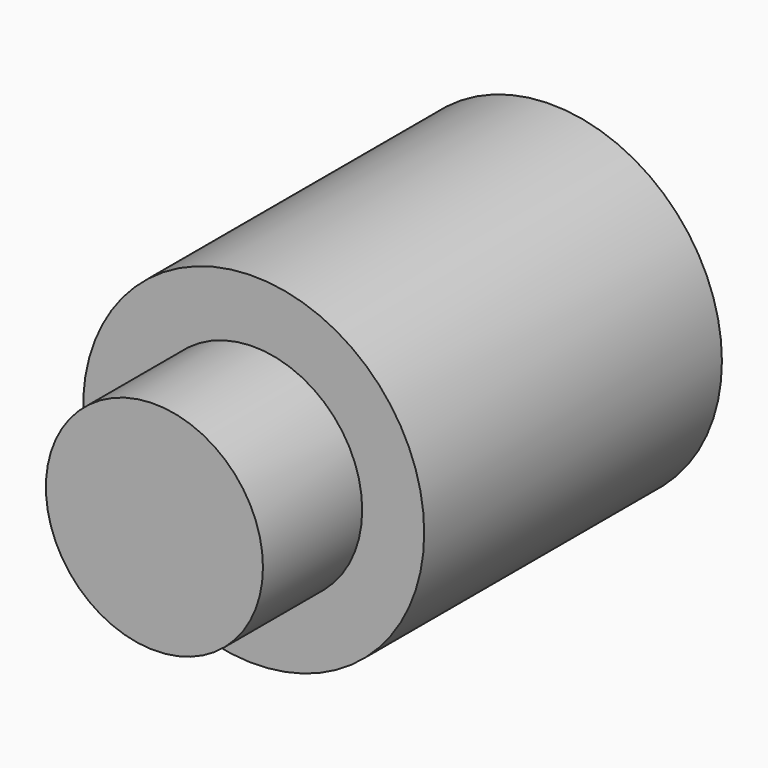
from build123d import *

# Parameters (mm, degrees)
F0_R     = 6.985
F1_DEPTH = 12.7
F2_R     = 6.985
F3_DEPTH = 2.54
F4_R     = 4.445
F5_DEPTH = 5.08


with BuildPart() as f1:
    # F0 (on Front) → F1 (new body)
    with BuildSketch(Plane.XZ):
        Circle(F0_R)
        with BuildLine():
            ThreePointArc((0.635, 4.655897), (3.540089, 3.090043), (4.699, 0))
            ThreePointArc((4.699, 0), (-3.090043, -3.540089), (-0.635, 4.655897))
            Line((-0.635, 4.655897), (-0.635, 5.969))
            Line((-0.635, 5.969), (0, 5.969))
            Line((0, 5.969), (0.635, 5.969))
            Line((0.635, 5.969), (0.635, 4.655897))
        make_face(mode=Mode.SUBTRACT)
    extrude(amount=F1_DEPTH)

    # F2 (on face) → F3 (join)
    with BuildSketch(Plane.XZ.offset(12.7)):
        Circle(F2_R)
    extrude(amount=F3_DEPTH)

    # F4 (on face) → F5 (join)
    with BuildSketch(Plane.XZ.offset(15.24)):
        Circle(F4_R)
        Circle(F4_R)
    extrude(amount=F5_DEPTH)


solid = f1.part
